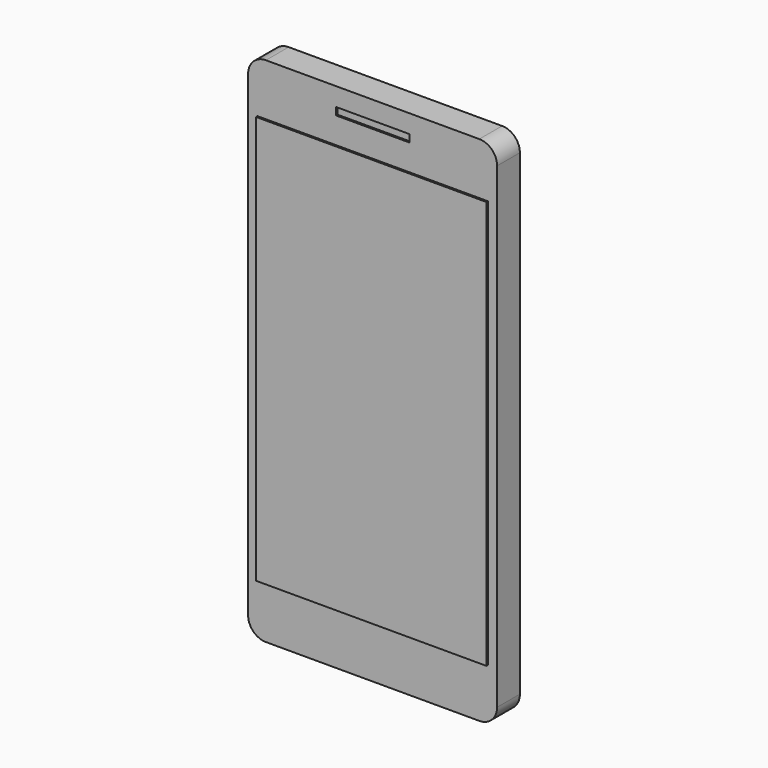
from build123d import *

# Parameters (mm, degrees)
F0_W     = 70
F0_H     = 144
F1_DEPTH = 8
F2_R     = 5
F3_W     = 64.75
F3_H     = 114.799998
F4_DEPTH = 0.5
F3_W_2   = 20.650004
F3_H_2   = 2.100006
F5_DEPTH = 0.5


with BuildPart() as f1:
    # F0 (on Front) → F1 (new body)
    with BuildSketch(Plane.XZ):
        Rectangle(F0_W, F0_H)
    extrude(amount=F1_DEPTH)

    # F2
    f2_edges = [f1.edges().sort_by_distance(p)[0] for p in [
        (-35, -4, 72),
        (35, -4, 72),
        (35, -4, -72),
        (-35, -4, -72),
    ]]
    fillet(f2_edges, radius=F2_R)

    # F3 (on face) → F5 (cut)
    with BuildSketch(Plane.XZ.offset(8)):
        with Locations((0, 65.800004)):
            Rectangle(F3_W_2, F3_H_2)
    extrude(amount=-F5_DEPTH, mode=Mode.SUBTRACT)


with BuildPart() as f4:
    # F3 (on face) → F4 (new body)
    with BuildSketch(Plane.XZ.offset(8)):
        Rectangle(F3_W, F3_H)
    extrude(amount=F4_DEPTH)


solid = Compound([f1.part, f4.part])
